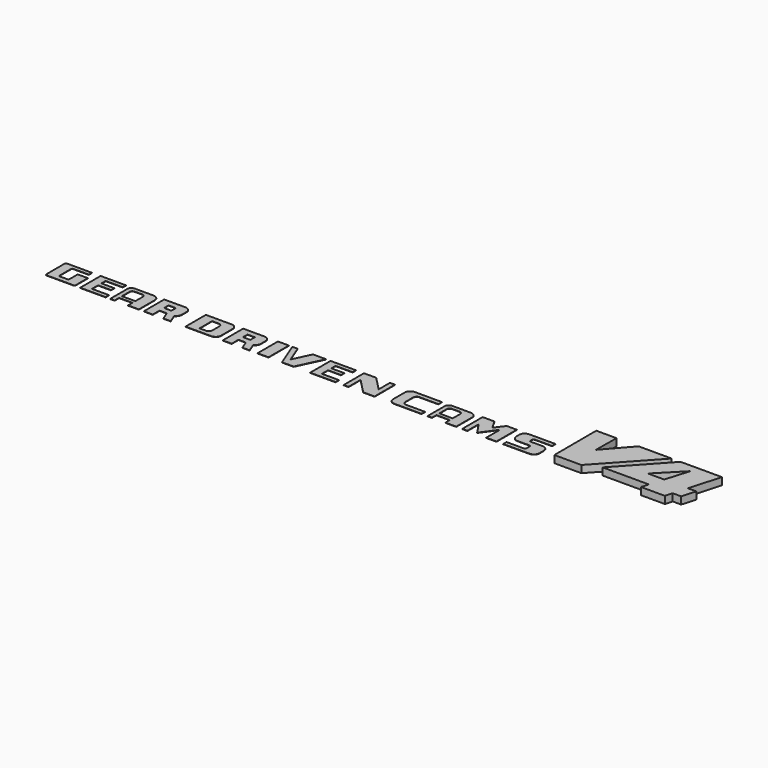
from build123d import *

# Parameters (mm, degrees)
F1_DEPTH = 25
F2_W     = 25.246084
F2_H     = 19.58108
F2_W_2   = 37.84874
F2_H_2   = 87.864712
F3_DEPTH = 1


with BuildPart() as f1:
    # F0 (on Top) → F1 (new body)
    with BuildSketch(Plane.XY):
        Polygon((779.99258, 395.516276), (710.087271, 395.516276), (710.556448, 214.086473), (803.683357, 214.086473), (970.248235, 395.516276), (856.176362, 395.516276), (779.116631, 307.501853), align=None)
        Polygon((1009.438406, 214.086473), (1092.018197, 214.086473), (1099.136689, 239.050456), (1128.307735, 239.050456), (1142.079677, 287.347555), (1112.908631, 287.347555), (1143.752995, 395.516276), (1000.947548, 395.516276), (857.301301, 239.050456), (1016.849295, 239.050456), align=None)
        Polygon((1031.186928, 287.347555), (975.108743, 287.347555), (1055.497408, 369.238734), align=None, mode=Mode.SUBTRACT)
    extrude(amount=F1_DEPTH)


with BuildPart() as f3:
    # F2 (on Top) → F3 (new body)
    with BuildSketch(Plane.XY):
        with BuildLine():
            Line((-955.709426, 302.210182), (-1041.438271, 302.210182))
            ThreePointArc((-1041.438271, 302.210182), (-1044.973805, 300.745716), (-1046.438271, 297.210182))
            Line((-1046.438271, 297.210182), (-1046.438271, 219.34547))
            ThreePointArc((-1046.438271, 219.34547), (-1044.973805, 215.809936), (-1041.438271, 214.34547))
            Line((-1041.438271, 214.34547), (-949.793165, 214.34547))
            ThreePointArc((-949.793165, 214.34547), (-946.257631, 215.809936), (-944.793165, 219.34547))
            Line((-944.793165, 219.34547), (-944.793165, 270.855904))
            Line((-944.793165, 270.855904), (-979.784846, 270.855904))
            Line((-979.784846, 270.855904), (-979.784846, 236.441602))
            ThreePointArc((-979.784846, 236.441602), (-981.249312, 232.906068), (-984.784846, 231.441602))
            Line((-984.784846, 231.441602), (-1008.608336, 231.441602))
            ThreePointArc((-1008.608336, 231.441602), (-1012.14387, 232.906068), (-1013.608336, 236.441602))
            Line((-1013.608336, 236.441602), (-1013.608336, 283.53124))
            ThreePointArc((-1013.608336, 283.53124), (-1012.14387, 287.066774), (-1008.608336, 288.53124))
            Line((-1008.608336, 288.53124), (-955.709426, 288.53124))
            Line((-955.709426, 288.53124), (-955.709426, 302.210182))
        make_face()
        Polygon((-925.967097, 302.210182), (-925.967097, 214.34547), (-838.299274, 214.34547), (-838.299274, 228.916496), (-897.14247, 228.916496), (-897.14247, 255.429924), (-852.648854, 255.429924), (-852.648854, 269.67752), (-897.14247, 269.67752), (-897.14247, 287.94232), (-838.299274, 287.94232), (-838.299274, 302.210182), align=None)
        with BuildLine():
            Line((-822.440158, 289.985622), (-822.440158, 214.34547))
            Line((-822.440158, 214.34547), (-807.196975, 214.34547))
            Line((-807.196975, 214.34547), (-807.196975, 233.509913))
            Line((-807.196975, 233.509913), (-761.089623, 233.509913))
            Line((-761.089623, 233.509913), (-761.089623, 214.34547))
            Line((-761.089623, 214.34547), (-723.618268, 214.34547))
            Line((-723.618268, 214.34547), (-723.618268, 283.679502))
            ThreePointArc((-723.618268, 283.679502), (-729.576453, 296.727148), (-742.830787, 302.210182))
            Line((-742.830787, 302.210182), (-743.5022, 302.210182))
            Line((-743.5022, 302.210182), (-807.963431, 302.210182))
            ThreePointArc((-807.963431, 302.210182), (-817.408465, 298.711114), (-822.440158, 289.985622))
        make_face()
        with BuildLine():
            Line((-761.089623, 246.008456), (-807.196975, 246.008456))
            Line((-807.196975, 246.008456), (-807.196975, 278.294519))
            ThreePointArc((-807.196975, 278.294519), (-804.268043, 285.365587), (-797.196975, 288.294519))
            Line((-797.196975, 288.294519), (-771.089623, 288.294519))
            ThreePointArc((-771.089623, 288.294519), (-764.018555, 285.365587), (-761.089623, 278.294519))
            Line((-761.089623, 278.294519), (-761.089623, 246.008456))
        make_face(mode=Mode.SUBTRACT)
        with BuildLine():
            Line((-706.352234, 302.210182), (-706.352234, 214.34547))
            Line((-706.352234, 214.34547), (-675.54909, 214.34547))
            Line((-675.54909, 214.34547), (-675.54909, 243.506367))
            Line((-675.54909, 243.506367), (-650.303006, 243.506367))
            Line((-650.303006, 243.506367), (-638.768077, 214.34547))
            Line((-638.768077, 214.34547), (-613.770962, 214.34547))
            Line((-613.770962, 214.34547), (-625.305891, 243.506367))
            ThreePointArc((-625.305891, 243.506367), (-616.686819, 252.583397), (-613.770962, 264.756262))
            Line((-613.770962, 264.756262), (-613.770962, 284.753948))
            ThreePointArc((-613.770962, 284.753948), (-620.070626, 297.096401), (-632.949723, 302.210182))
            Line((-632.949723, 302.210182), (-633.638263, 302.210182))
            Line((-633.638263, 302.210182), (-706.352234, 302.210182))
        make_face()
        with Locations((-662.926048, 272.880316)):
            Rectangle(F2_W, F2_H, mode=Mode.SUBTRACT)
        with BuildLine():
            Line((-562.574029, 302.210182), (-562.574029, 214.34547))
            Line((-562.574029, 214.34547), (-473.916302, 214.34547))
            ThreePointArc((-473.916302, 214.34547), (-460.481273, 219.910441), (-454.916302, 233.34547))
            Line((-454.916302, 233.34547), (-454.916302, 283.210182))
            ThreePointArc((-454.916302, 283.210182), (-460.481273, 296.645211), (-473.916302, 302.210182))
            Line((-473.916302, 302.210182), (-562.574029, 302.210182))
        make_face()
        with BuildLine():
            Line((-504.21939, 230.071396), (-526.670694, 230.071396))
            Line((-526.670694, 230.071396), (-526.670694, 284.134983))
            Line((-526.670694, 284.134983), (-504.21939, 284.134983))
            ThreePointArc((-504.21939, 284.134983), (-495.734109, 280.620265), (-492.21939, 272.134983))
            Line((-492.21939, 272.134983), (-492.21939, 242.071396))
            ThreePointArc((-492.21939, 242.071396), (-495.734109, 233.586114), (-504.21939, 230.071396))
        make_face(mode=Mode.SUBTRACT)
        with BuildLine():
            Line((-433.984816, 302.210182), (-433.984816, 214.34547))
            Line((-433.984816, 214.34547), (-403.181672, 214.34547))
            Line((-403.181672, 214.34547), (-403.181672, 243.506367))
            Line((-403.181672, 243.506367), (-377.935588, 243.506367))
            Line((-377.935588, 243.506367), (-366.400659, 214.34547))
            Line((-366.400659, 214.34547), (-341.403544, 214.34547))
            Line((-341.403544, 214.34547), (-352.938473, 243.506367))
            ThreePointArc((-352.938473, 243.506367), (-344.319401, 252.583397), (-341.403544, 264.756262))
            Line((-341.403544, 264.756262), (-341.403544, 284.753948))
            ThreePointArc((-341.403544, 284.753948), (-347.703208, 297.096401), (-360.582305, 302.210182))
            Line((-360.582305, 302.210182), (-361.270845, 302.210182))
            Line((-361.270845, 302.210182), (-433.984816, 302.210182))
        make_face()
        with Locations((-390.55863, 272.880316)):
            Rectangle(F2_W, F2_H, mode=Mode.SUBTRACT)
        with Locations((-295.052275, 258.277826)):
            Rectangle(F2_W_2, F2_H_2)
        Polygon((-245.967612, 302.210182), (-264.299095, 302.210182), (-229.617923, 214.34547), (-189.486846, 214.34547), (-147.714507, 302.210182), (-192.954957, 302.210182), (-221.919783, 241.285032), align=None)
        Polygon((-132.310137, 302.210182), (-132.310137, 214.34547), (-44.642314, 214.34547), (-44.642314, 228.916496), (-103.48551, 228.916496), (-103.48551, 255.429924), (-58.991894, 255.429924), (-58.991894, 269.67752), (-103.48551, 269.67752), (-103.48551, 287.94232), (-44.642314, 287.94232), (-44.642314, 302.210182), align=None)
        Polygon((-17.000001, 302.210182), (-17.000001, 214.34547), (0, 214.34547), (0, 266.449958), (50.551287, 214.34547), (89.954153, 214.34547), (89.954153, 302.210182), (72.592258, 302.210182), (72.592258, 253.487855), (25.322312, 302.210182), align=None)
        with BuildLine():
            Line((138.958871, 283.210182), (138.958871, 233.34547))
            ThreePointArc((138.958871, 233.34547), (144.523843, 219.910441), (157.958871, 214.34547))
            Line((157.958871, 214.34547), (252.034605, 214.34547))
            Line((252.034605, 214.34547), (252.034605, 229.355679))
            Line((252.034605, 229.355679), (186.699977, 229.355679))
            ThreePointArc((186.699977, 229.355679), (178.214696, 232.870397), (174.699977, 241.355679))
            Line((174.699977, 241.355679), (174.699977, 274.699831))
            ThreePointArc((174.699977, 274.699831), (178.214696, 283.185112), (186.699977, 286.699831))
            Line((186.699977, 286.699831), (252.034605, 286.699831))
            Line((252.034605, 286.699831), (252.034605, 302.210182))
            Line((252.034605, 302.210182), (157.958871, 302.210182))
            ThreePointArc((157.958871, 302.210182), (144.523843, 296.645211), (138.958871, 283.210182))
        make_face()
        with BuildLine():
            Line((272.81487, 289.985622), (272.81487, 214.34547))
            Line((272.81487, 214.34547), (288.058053, 214.34547))
            Line((288.058053, 214.34547), (288.058053, 233.509913))
            Line((288.058053, 233.509913), (334.165405, 233.509913))
            Line((334.165405, 233.509913), (334.165405, 214.34547))
            Line((334.165405, 214.34547), (371.63676, 214.34547))
            Line((371.63676, 214.34547), (371.63676, 283.679502))
            ThreePointArc((371.63676, 283.679502), (365.678575, 296.727148), (352.424241, 302.210182))
            Line((352.424241, 302.210182), (351.752828, 302.210182))
            Line((351.752828, 302.210182), (287.291597, 302.210182))
            ThreePointArc((287.291597, 302.210182), (277.846563, 298.711114), (272.81487, 289.985622))
        make_face()
        with BuildLine():
            Line((334.165405, 246.008456), (288.058053, 246.008456))
            Line((288.058053, 246.008456), (288.058053, 278.294519))
            ThreePointArc((288.058053, 278.294519), (290.986985, 285.365587), (298.058053, 288.294519))
            Line((298.058053, 288.294519), (324.165405, 288.294519))
            ThreePointArc((324.165405, 288.294519), (331.236473, 285.365587), (334.165405, 278.294519))
            Line((334.165405, 278.294519), (334.165405, 246.008456))
        make_face(mode=Mode.SUBTRACT)
        Polygon((392.531931, 302.210182), (392.531931, 214.34547), (410.34767, 214.34547), (410.34767, 262.978885), (437.865949, 221.764414), (475.485116, 273.967206), (475.182125, 214.34547), (510.563493, 214.34547), (510.563493, 302.210182), (475.628644, 302.210182), (451.675951, 269.918442), (433.344483, 302.210182), align=None)
        with BuildLine():
            Line((533.936799, 228.775243), (533.936799, 214.34547))
            Line((533.936799, 214.34547), (624.752456, 214.34547))
            ThreePointArc((624.752456, 214.34547), (638.187485, 219.910441), (643.752456, 233.34547))
            Line((643.752456, 233.34547), (643.752456, 251.932049))
            ThreePointArc((643.752456, 251.932049), (638.187485, 265.367077), (624.752456, 270.932049))
            Line((624.752456, 270.932049), (584.201425, 270.932049))
            ThreePointArc((584.201425, 270.932049), (580.665891, 272.396515), (579.201425, 275.932049))
            Line((579.201425, 275.932049), (579.201425, 282.489156))
            ThreePointArc((579.201425, 282.489156), (580.665891, 286.024689), (584.201425, 287.489156))
            Line((584.201425, 287.489156), (643.752456, 287.489156))
            Line((643.752456, 287.489156), (643.752456, 302.210182))
            Line((643.752456, 302.210182), (552.936799, 302.210182))
            ThreePointArc((552.936799, 302.210182), (539.50177, 296.645211), (533.936799, 283.210182))
            Line((533.936799, 283.210182), (533.936799, 271.078056))
            ThreePointArc((533.936799, 271.078056), (539.50177, 257.643027), (552.936799, 252.078056))
            Line((552.936799, 252.078056), (593.709141, 252.078056))
            ThreePointArc((593.709141, 252.078056), (597.244675, 250.61359), (598.709141, 247.078056))
            Line((598.709141, 247.078056), (598.709141, 233.775243))
            ThreePointArc((598.709141, 233.775243), (597.244675, 230.239709), (593.709141, 228.775243))
            Line((593.709141, 228.775243), (533.936799, 228.775243))
        make_face()
    extrude(amount=F3_DEPTH)


solid = Compound([f1.part, f3.part])
